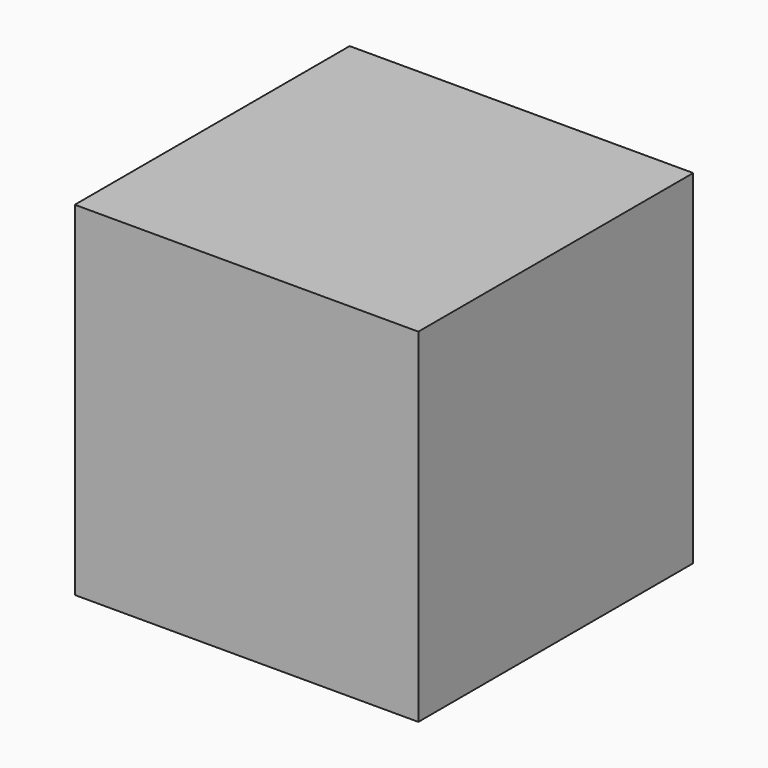
from build123d import *

# Parameters (mm, degrees)
F0_W     = 60
F0_H     = 60
F1_DEPTH = 60
F3_DEPTH = 56.42514


with BuildPart() as f1:
    # F0 (on Front) → F1 (new body)
    with BuildSketch(Plane.XZ):
        with Locations((30, 30)):
            Rectangle(F0_W, F0_H)
    extrude(amount=F1_DEPTH)

    # F2 (on face) → F3 (cut)
    with BuildSketch(Plane.XZ.offset(60)):
        Polygon((0, 37.959962), (30.673204, 37.959962), (30, 60), (0, 60), align=None)
    extrude(amount=F3_DEPTH, mode=Mode.SUBTRACT)


solid = f1.part
